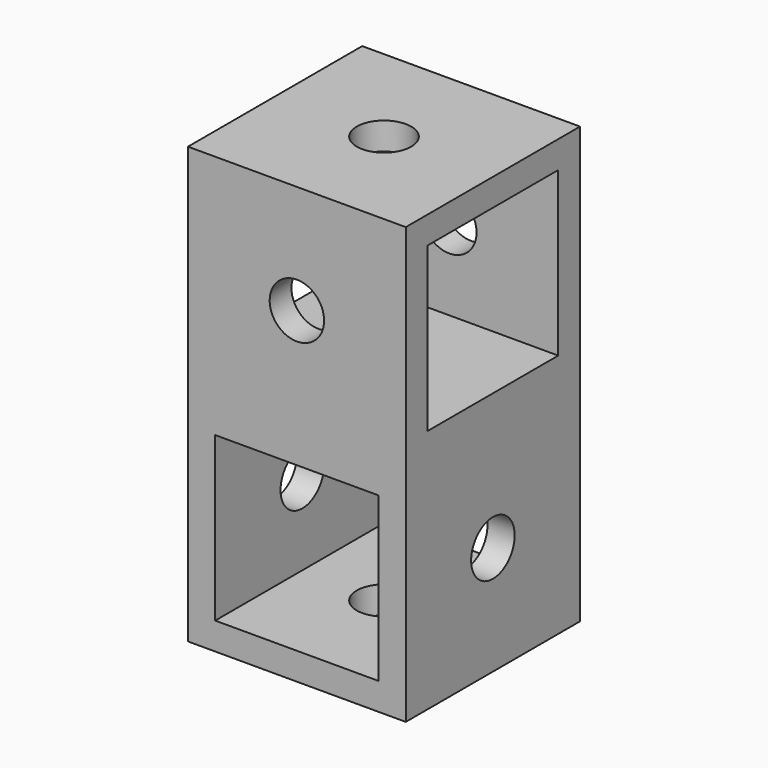
from build123d import *

# Parameters (mm, degrees)
F0_W     = 20
F0_H     = 40
F1_DEPTH = 20
F2_W     = 15
F2_H     = 15
F2_R     = 2.5
F3_DEPTH = 20.001
F4_W     = 15
F4_H     = 15
F4_R     = 2.5
F5_DEPTH = 20.001
F6_R     = 2.5
F7_DEPTH = 40.001


with BuildPart() as f1:
    # F0 (on Front) → F1 (new body)
    with BuildSketch(Plane.XZ):
        Rectangle(F0_W, F0_H)
    extrude(amount=F1_DEPTH)

    # F2 (on face) → F3 (cut, through all)
    with BuildSketch(Plane.YZ.offset(10)):
        with Locations((-10, 10)):
            Rectangle(F2_W, F2_H)
        with Locations((-10, -10)):
            Circle(F2_R)
    extrude(amount=-F3_DEPTH, mode=Mode.SUBTRACT)

    # F4 (on face) → F5 (cut, through all)
    with BuildSketch(Plane(origin=(0, 0, 0), x_dir=(-1, 0, 0), z_dir=(0, 1, 0))):
        with Locations((0, -10)):
            Rectangle(F4_W, F4_H)
        with Locations((0, 10)):
            Circle(F4_R)
    extrude(amount=-F5_DEPTH, mode=Mode.SUBTRACT)

    # F6 (on face) → F7 (cut, through all)
    with BuildSketch(Plane.XY.offset(20)):
        with Locations((0, -10)):
            Circle(F6_R)
    extrude(amount=-F7_DEPTH, mode=Mode.SUBTRACT)


solid = f1.part
